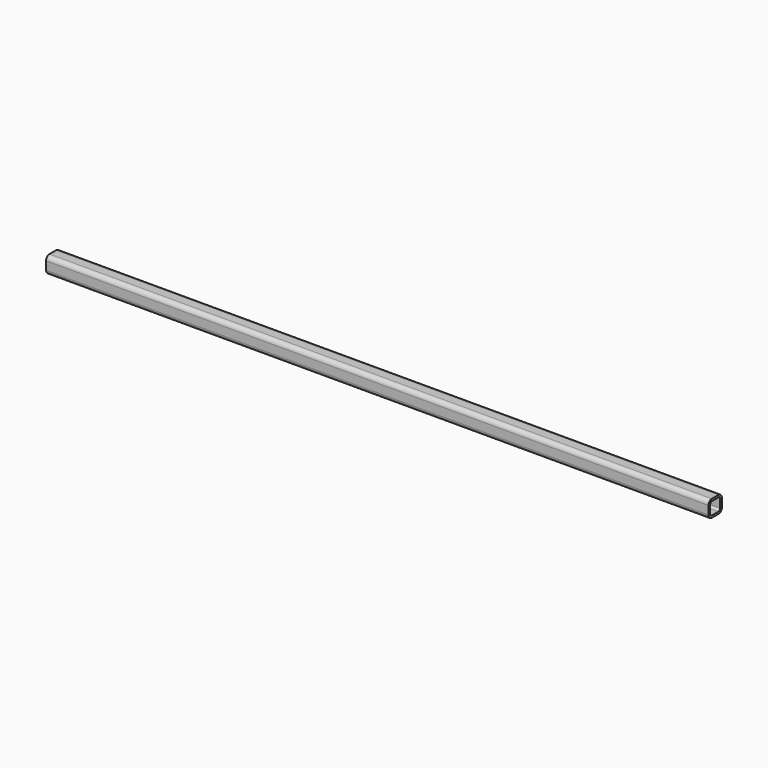
from build123d import *

# Parameters (mm, degrees)
F1_DEPTH = 2006.6


with BuildPart() as f1:
    # F0 (on Right) → F1 (new body)
    with BuildSketch(Plane.YZ):
        with BuildLine():
            ThreePointArc((25.4, 12.7), (21.680256, 21.680256), (12.7, 25.4))
            Line((12.7, 25.4), (-12.7, 25.4))
            ThreePointArc((-12.7, 25.4), (-21.680256, 21.680256), (-25.4, 12.7))
            Line((-25.4, 12.7), (-25.4, -12.7))
            ThreePointArc((-25.4, -12.7), (-21.680256, -21.680256), (-12.7, -25.4))
            Line((-12.7, -25.4), (12.7, -25.4))
            ThreePointArc((12.7, -25.4), (21.680256, -21.680256), (25.4, -12.7))
            Line((25.4, -12.7), (25.4, 12.7))
        make_face()
        with BuildLine():
            Line((-12.7, 19.05), (12.7, 19.05))
            ThreePointArc((12.7, 19.05), (17.190128, 17.190128), (19.05, 12.7))
            Line((19.05, 12.7), (19.05, -12.7))
            ThreePointArc((19.05, -12.7), (17.190128, -17.190128), (12.7, -19.05))
            Line((12.7, -19.05), (-12.7, -19.05))
            ThreePointArc((-12.7, -19.05), (-17.190128, -17.190128), (-19.05, -12.7))
            Line((-19.05, -12.7), (-19.05, 12.7))
            ThreePointArc((-19.05, 12.7), (-17.190128, 17.190128), (-12.7, 19.05))
        make_face(mode=Mode.SUBTRACT)
    extrude(amount=F1_DEPTH)


solid = f1.part
